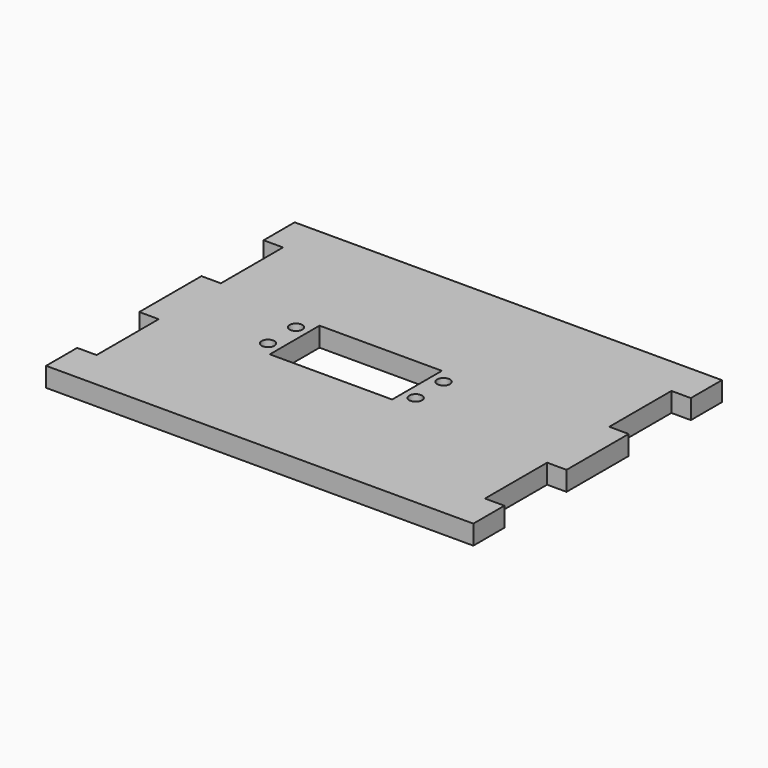
from build123d import *

# Parameters (mm, degrees)
F0_W     = 139.7
F0_H     = 101.6
F1_DEPTH = 6.35
F2_W     = 29.21
F2_H     = 10.16
F2_W_2   = 10.795
F3_DEPTH = 25.4
F5_R     = 2.0955
F6_DEPTH = 25.4
F7_W     = 6.35
F7_H     = 25.4
F8_DEPTH = 25.4


with BuildPart() as f1:
    # F0 (on Top) → F1 (new body)
    with BuildSketch(Plane.XY):
        with Locations((69.85, -50.8)):
            Rectangle(F0_W, F0_H)
    extrude(amount=F1_DEPTH)

    # F2 (on face) → F3 (cut)
    with BuildSketch(Plane.XY.offset(6.35)):
        with Locations((55.245, -45.72)):
            Rectangle(F2_W, F2_H)
        with Locations((75.2475, -45.72)):
            Rectangle(F2_W_2, F2_H)
        with Locations((55.245, -55.88)):
            Rectangle(F2_W, F2_H)
        with Locations((75.2475, -55.88)):
            Rectangle(F2_W_2, F2_H)
    extrude(amount=-F3_DEPTH, mode=Mode.SUBTRACT)

    # F5 (on face) → F6 (cut)
    with BuildSketch(Plane.XY.offset(6.35)):
        with Locations((84.7725, -45.085)):
            Circle(F5_R)
        with Locations((84.7725, -56.515)):
            Circle(F5_R)
        with Locations((36.5125, -45.085)):
            Circle(F5_R)
        with Locations((36.5125, -56.515)):
            Circle(F5_R)
    extrude(amount=-F6_DEPTH, mode=Mode.SUBTRACT)

    # F7 (on face) → F8 (cut)
    with BuildSketch(Plane.XY.offset(6.35)):
        with Locations((3.175, -25.4)):
            Rectangle(F7_W, F7_H)
        with Locations((3.175, -76.2)):
            Rectangle(F7_W, F7_H)
        with Locations((136.525, -25.4)):
            Rectangle(F7_W, F7_H)
        with Locations((136.525, -76.2)):
            Rectangle(F7_W, F7_H)
    extrude(amount=-F8_DEPTH, mode=Mode.SUBTRACT)


solid = f1.part
